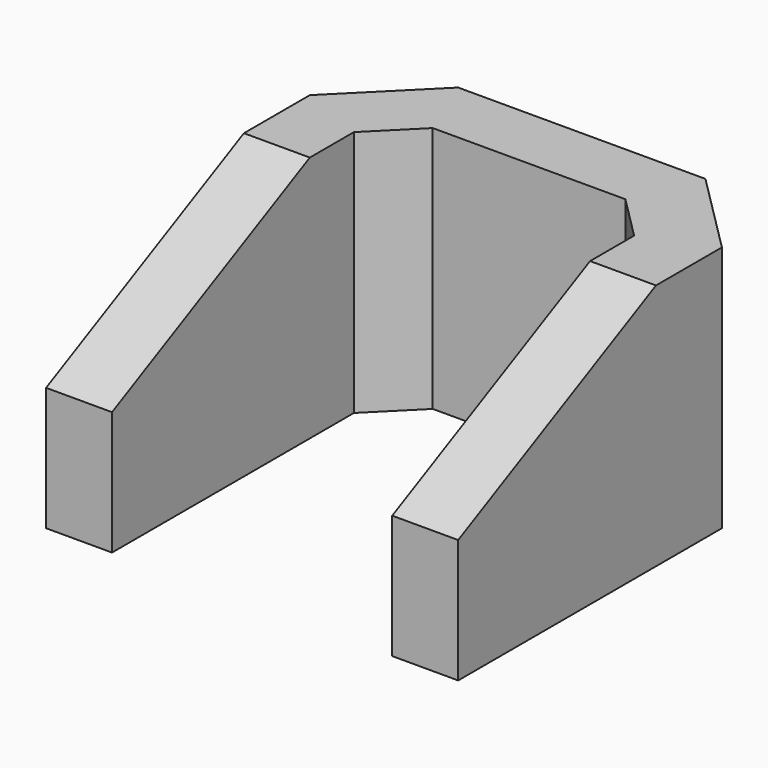
from build123d import *

# Parameters (mm, degrees)
F1_DEPTH = 19.05
F2_T     = -5.08
F4_DEPTH = 31.751


with BuildPart() as f1:
    # F0 (on Top) → F1 (new body)
    with BuildSketch(Plane.XY):
        Polygon((-15.875, 25.4), (-15.875, 0), (15.875, 0), (15.875, 25.4), (9.525, 31.75), (-9.525, 31.75), align=None)
    extrude(amount=F1_DEPTH)

    # F2
    f2_openings = [f1.faces().sort_by_distance(p)[0] for p in [
        (0, 15.301736, 19.05),
        (0, 0, 9.525),
        (0, 15.301736, 0),
    ]]
    offset(amount=F2_T, openings=f2_openings)

    # F3 (on face) → F4 (cut, through all)
    with BuildSketch(Plane.YZ.offset(15.875)):
        Polygon((0, 19.05), (0, 9.525), (19.05, 19.05), align=None)
    extrude(amount=-F4_DEPTH, mode=Mode.SUBTRACT)


solid = f1.part
